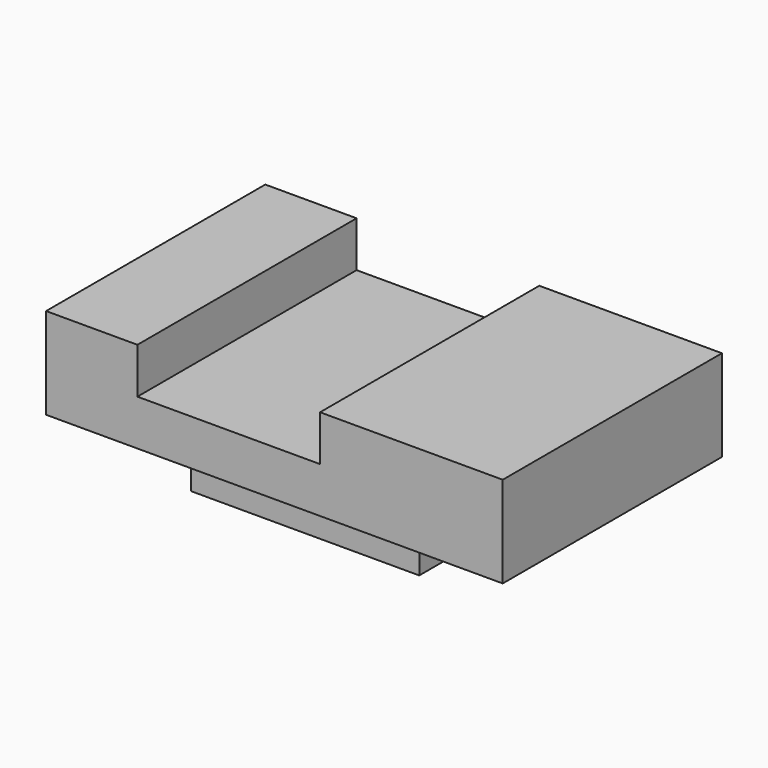
from build123d import *

# Parameters (mm, degrees)
F1_DEPTH = 12.7
F2_W     = 25.4
F2_H     = 76.2
F3_DEPTH = 12.7
F4_W     = 50.8
F4_H     = 76.2
F5_DEPTH = 12.7
F7_DEPTH = 12.7


with BuildPart() as f1:
    # F0 (on Top) → F1 (new body)
    with BuildSketch(Plane.XY):
        Polygon((-42.839443, 47.784637), (-68.239443, 47.784637), (-68.239443, -28.415363), (-42.839443, -28.415363), (7.960557, -28.415363), (58.760557, -28.415363), (58.760557, 47.784637), (7.960557, 47.784637), align=None)
    extrude(amount=F1_DEPTH)

    # F2 (on face) → F3 (join)
    with BuildSketch(Plane.XY.offset(12.7)):
        with Locations((-55.539443, 9.684637)):
            Rectangle(F2_W, F2_H)
    extrude(amount=F3_DEPTH)

    # F4 (on face) → F5 (join)
    with BuildSketch(Plane.XY.offset(12.7)):
        with Locations((33.360557, 9.684637)):
            Rectangle(F4_W, F4_H)
    extrude(amount=F5_DEPTH)

    # F6 (on face) → F7 (join)
    with BuildSketch(Plane(origin=(0, 0, 0), x_dir=(1, 0, 0), z_dir=(0, 0, -1))):
        with BuildLine():
            Line((27.010557, 17.746579), (-4.739443, 17.746579))
            Line((-4.739443, 17.746579), (-36.489443, 17.746579))
            Line((-36.489443, 17.746579), (-36.489443, 0))
            Line((-36.489443, 0), (-36.489443, -6.262278))
            ThreePointArc((-36.489443, -6.262278), (-26.403608, -28.083061), (-4.739443, -38.501054))
            ThreePointArc((-4.739443, -38.501054), (16.924722, -28.083061), (27.010557, -6.262278))
            Line((27.010557, -6.262278), (27.010557, 0))
            Line((27.010557, 0), (27.010557, 17.746579))
        make_face()
    extrude(amount=F7_DEPTH)


solid = f1.part
